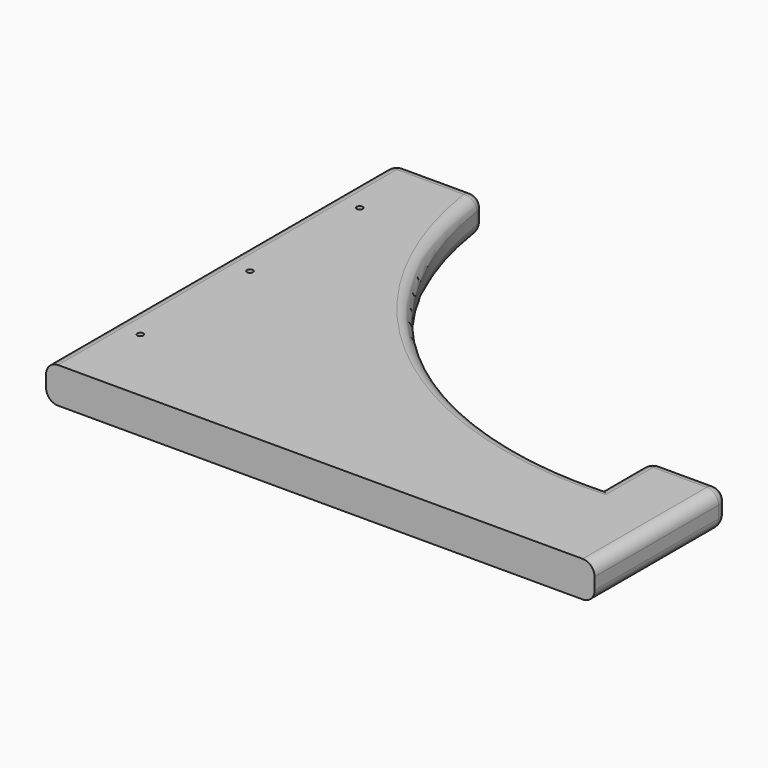
from build123d import *

# Parameters (mm, degrees)
F1_DEPTH = 6
F3_D     = 1
F3_DEPTH = 1
F3_TIP   = 0.3004303095
F4_R     = 2


with BuildPart() as f1:
    # F0 (on Top) → F1 (new body)
    with BuildSketch(Plane.XY):
        with BuildLine():
            Line((-43.1737847788, 64.6250816927), (-43.1737847788, -8.3749183073))
            Line((-43.1737847788, -8.3749183073), (48.8262152212, -8.3749183073))
            Line((48.8262152212, -8.3749183073), (48.8262152212, 19.6250816927))
            Line((48.8262152212, 19.6250816927), (35.8262152212, 19.6250816927))
            Line((35.8262152212, 19.6250816927), (35.8262152212, 9.6250816927))
            ThreePointArc((35.8262152212, 9.6250816927), (-6.8545907303, 24.6965074946), (-28.1737847788, 64.6250816927))
            Line((-28.1737847788, 64.6250816927), (-43.1737847788, 64.6250816927))
        make_face()
    extrude(amount=F1_DEPTH)

    # F3
    with Locations(Plane.XY.offset(6)):
        with Locations((-38.1737847788, 51.1250816927), (-38.1737847788, 28.1250816927), (-38.1737847788, 5.1250816927)):
            Hole(F3_D / 2, depth=F3_DEPTH)
            with Locations((0, 0, -(F3_DEPTH + F3_TIP / 2))):  # 118° drill point
                Cone(0, F3_D / 2, F3_TIP, mode=Mode.SUBTRACT)

    # F4
    f4_edges = [f1.edges().sort_by_distance(p)[0] for p in [
        (48.826215, 19.625082, 3),
        (48.826215, 5.625082, 0),
        (48.826215, 5.625082, 6),
        (42.326215, 19.625082, 6),
        (42.326215, 19.625082, 0),
        (35.826215, 14.625082, 6),
        (-6.854591, 24.696507, 6),
        (35.826215, 14.625082, 0),
        (-6.854591, 24.696507, 0),
        (-35.673785, 64.625082, 0),
        (-35.673785, 64.625082, 6),
        (-43.173785, 28.125082, 0),
        (-43.173785, 28.125082, 6),
        (35.826215, 19.625082, 3),
        (-28.173785, 64.625082, 3),
        (-43.173785, 64.625082, 3),
    ]]
    fillet(f4_edges, radius=F4_R)


solid = f1.part
